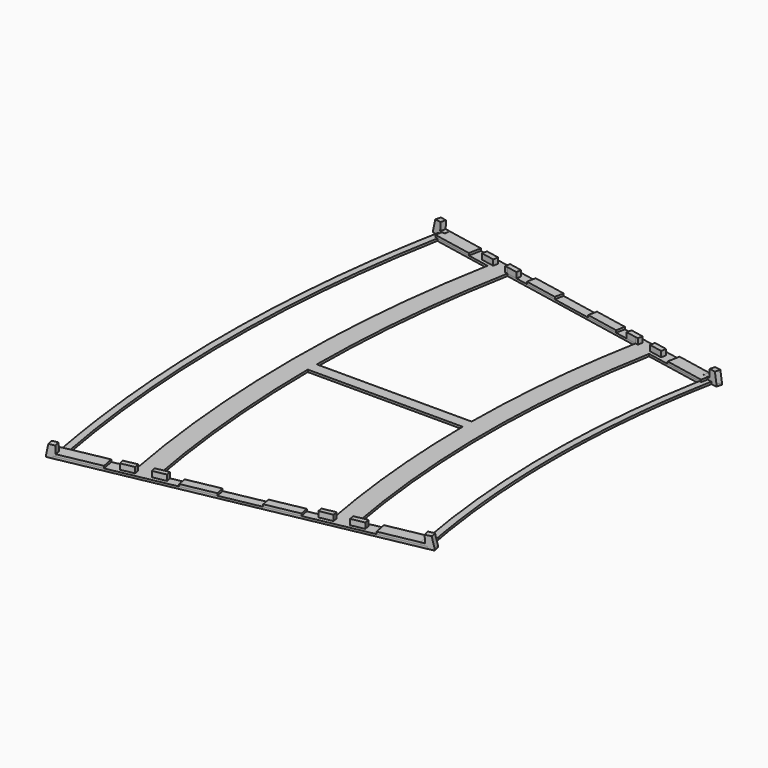
from build123d import *

# Parameters (mm, degrees)
F1_ANGLE_BACK = 11.25
F1_ANGLE      = 22.5
F2_W          = 174.6602954563
F2_H          = 13.9838710204
F2_W_2        = 174.5945907282
F2_H_2        = 12.7738052979
F3_DEPTH      = 125
F5_DEPTH      = 1.001
F7_DEPTH      = 2.5
F9_DEPTH      = 1
F11_DEPTH     = 2.5
F13_DEPTH     = 2.5


with BuildPart() as f1:
    # F0 (on Front) → F1 (revolve)
    with BuildSketch(Plane.XZ, mode=Mode.PRIVATE) as f1_sk:
        Polygon((4.5, 1.8972494266), (151.4991241063, 1.4046487898), (151.5292833394, 10.4045982575), (4.530159233, 10.8971988943), align=None)
        Polygon((151.4689648733, -7.5953006778), (151.4991241063, 1.4046487898), (4.5, 1.8972494266), (4.4973410418, 1.1037780134), (51.0110905605, -7.2586618498), align=None)
        Polygon((4.469840767, -7.102700041), (51.0110905605, -7.2586618498), (4.4973410418, 1.1037780134), align=None)
    revolve(f1_sk.sketch.rotate(Axis((561.8991869329, 0, -48.7660320647), (-0.176947319, 0, -0.9842203241)), -F1_ANGLE_BACK), axis=Axis((561.8991869329, 0, -48.7660320647), (-0.176947319, 0, -0.9842203241)), revolution_arc=F1_ANGLE)

    # F2 (on Front) → F3 (cut, symmetric)
    with BuildSketch(Plane.XZ):
        with Locations((82.9434095772, 7.9919355102)):
            Rectangle(F2_W, F2_H)
        with Locations((82.9762619412, -6.386902649)):
            Rectangle(F2_W_2, F2_H_2)
    extrude(amount=F3_DEPTH, both=True, mode=Mode.SUBTRACT)

    # F4 (on face) → F5 (cut, through all)
    with BuildSketch(Plane.XY.offset(1)):
        with BuildLine():
            Line((43.4654092359, 97.642850746), (16.9671003359, 102.8305199324))
            ThreePointArc((16.9671003359, 102.8305199324), (7.5, 0), (16.9671003359, -102.8305199324))
            Line((16.9671003359, -102.8305199324), (43.4654092359, -97.642850746))
            ThreePointArc((43.4654092359, -97.642850746), (34.5, 0), (43.4654092359, 97.642850746))
        make_face()
        with BuildLine():
            Line((120.2899679019, 84.1311059323), (52.5732132725, 97.3882584065))
            ThreePointArc((52.5732132725, 97.3882584065), (45.8906345723, 50.1494761623), (43.5059275751, 2.5))
            Line((43.5059275751, 2.5), (112.5068202166, 2.5))
            ThreePointArc((112.5068202166, 2.5), (114.5685951129, 43.4900158167), (120.2899679019, 84.1311059323))
        make_face()
        with BuildLine():
            Line((112.5068202166, -2.5), (43.5059275751, -2.5))
            ThreePointArc((43.5059275751, -2.5), (45.8906345723, -50.1494761623), (52.5732132725, -97.3882584065))
            Line((52.5732132725, -97.3882584065), (120.2899679019, -84.1311059323))
            ThreePointArc((120.2899679019, -84.1311059323), (114.5685951129, -43.4900158167), (112.5068202166, -2.5))
        make_face()
        with BuildLine():
            Line((155.3490104822, 75.7389959439), (128.8499233765, 80.9268174824))
            ThreePointArc((128.8499233765, 80.9268174824), (121.5, 0), (128.8499233765, -80.9268174824))
            Line((128.8499233765, -80.9268174824), (155.3490104822, -75.7389959439))
            ThreePointArc((155.3490104822, -75.7389959439), (148.5, 0), (155.3490104822, 75.7389959439))
        make_face()
    extrude(amount=-F5_DEPTH, mode=Mode.SUBTRACT)

    # F6 (on face) → F7 (join)
    with BuildSketch(Plane.XY.offset(1)):
        Polygon((45.0166627785, 98.8676314601), (45.4585534309, 101.1247829063), (39.5703322667, 102.2775411299), (39.1284416144, 100.0203896837), align=None)
        Polygon((52.5732132725, 97.3882584065), (57.2837902038, 96.4660518276), (57.7064682191, 98.6250662544), (51.818247055, 99.777824478), (51.3955690397, 97.6188100512), align=None)
        Polygon((116.0020689859, 87.2123269381), (115.5793909706, 85.0533125112), (120.2899679019, 84.1311059323), (121.4676121347, 83.9005542876), (121.8902901501, 86.0595687145), align=None)
        Polygon((128.2884090483, 84.908884325), (127.8465183959, 82.6517328787), (133.7347395601, 81.4989746551), (134.1766302124, 83.7561261014), align=None)
        Polygon((120.2899679019, -84.1311059323), (115.5793909706, -85.0533125112), (116.0020689859, -87.2123269381), (121.8902901501, -86.0595687145), (121.4676121347, -83.9005542876), align=None)
        Polygon((133.7347395601, -81.4989746551), (127.8465183959, -82.6517328787), (128.2884090483, -84.908884325), (134.1766302124, -83.7561261014), align=None)
        Polygon((45.4585534309, -101.1247829063), (45.0166627785, -98.8676314601), (39.1284416144, -100.0203896837), (39.5703322667, -102.2775411299), align=None)
        Polygon((57.7064682191, -98.6250662544), (57.2837902038, -96.4660518276), (52.5732132725, -97.3882584065), (51.3955690397, -97.6188100512), (51.818247055, -99.777824478), align=None)
    extrude(amount=F7_DEPTH)

    # F8 (on face) → F9 (join)
    with BuildSketch(Plane.XY.offset(1)):
        Polygon((34.6784961674, 104.9675053569), (17.0138326749, 108.4257800277), (15.9571376366, 103.0282439606), (16.9671003359, 102.8305199324), (33.6218011291, 99.5699692898), align=None)
        Polygon((78.3494698015, 96.4178818652), (63.6289168911, 99.2997774242), (62.8604114087, 95.3742966481), (77.5809643191, 92.4924010891), align=None)
        Polygon((110.7346862043, 90.0777116354), (96.0141332939, 92.9596071944), (95.2456278115, 89.0341264183), (109.9661807219, 86.1522308593), align=None)
        Polygon((157.3497208298, 80.9517187405), (139.6850573373, 84.4099934113), (138.628362299, 79.0124573441), (155.3490104822, 75.7389959439), (156.2930257915, 75.5541826733), align=None)
        Polygon((156.2930257915, -75.5541826733), (155.3490104822, -75.7389959439), (138.628362299, -79.0124573441), (139.6850573373, -84.4099934113), (157.3497208298, -80.9517187405), align=None)
        Polygon((95.2455782208, -89.0341361269), (96.0140837032, -92.959616903), (110.7346366136, -90.077721344), (109.9661311312, -86.1522405679), align=None)
        Polygon((62.860361818, -95.3743063567), (63.6288673004, -99.2997871328), (78.3494202108, -96.4178915738), (77.5809147284, -92.4924107977), align=None)
        Polygon((16.9671003359, -102.8305199324), (14.0205764212, -103.407371511), (15.0510922869, -108.8100327689), (34.6784961674, -104.9675053569), (33.6218011291, -99.5699692898), align=None)
    extrude(amount=F9_DEPTH)

    # F10 (on face) → F11 (join)
    with BuildSketch(Plane(origin=(21.0396507867, -107.4692979953, -3.7825979687), x_dir=(0.9813926052, 0.1918930354, 0.0067540611), z_dir=(0.19201186, -0.9807852804, -0.0345207094))):
        Polygon((-8.8453486731, 3.8468765561), (-6.1087279224, 3.8468765561), (-6.1021027342, 4.826798959), (-5.0953486731, 4.81999507), (-5.0953486731, 5.8261801192), (-5.0953486731, 9.2761801192), (-7.8453486731, 9.2761801192), (-8.8453486731, 4.7761801192), align=None)
        Polygon((-6.1021027342, 4.826798959), (-6.1087279224, 3.8468765561), (-5.0953486731, 3.8468765561), (-5.0953486731, 4.81999507), align=None)
        Polygon((140.8944898216, 3.8333602109), (140.8878160856, 2.8462571659), (143.6378160856, 2.8462571659), (143.6378160856, 3.835607484), (142.6378160856, 8.285607484), (139.8878160856, 8.285607484), (139.8878160856, 4.835607484), (138.0617320538, 4.835607484), (138.474456915, 3.8497153822), (138.8945354939, 3.846876389), align=None)
        Polygon((138.8945354939, 2.8462571659), (140.8878160856, 2.8462571659), (140.8944898216, 3.8333602109), (138.8945354939, 3.846876389), (138.474456915, 3.8497153822), align=None)
    extrude(amount=-F11_DEPTH)

    # F12 (on face) → F13 (join)
    with BuildSketch(Plane(origin=(21.0396507867, 107.4692979953, -3.7825979687), x_dir=(-0.9813926052, 0.1918930354, -0.0067540611), z_dir=(0.19201186, 0.9807852804, -0.0345207094))):
        Polygon((6.1088675431, 3.8262254542), (2.7622254557, 3.8036080325), (4.8167226223, 3.8036080325), (6.1021027342, 3.8036080325), (8.8521027342, 3.8036080325), (8.8521027342, 4.7536080325), (7.8521027342, 9.2536080325), (5.1021027342, 9.2536080325), (5.1021027342, 5.8036080325), (2.7622254557, 5.8036080325), (2.7622254557, 4.8042272555), (4.1021484065, 4.8132827809), (6.1021027342, 4.826798959), align=None)
        Polygon((2.7622254557, 4.8042272555), (2.7622254557, 3.8036080325), (6.1088675431, 3.8262254542), (6.1021027342, 4.826798959), (4.1021484065, 4.8132827809), align=None)
        Polygon((-143.6444898216, 2.832786706), (-140.8877250128, 2.832786706), (-140.8944898216, 3.8333602109), (-138.8945354939, 3.846876389), (-136.8420855995, 3.8607473449), (-136.7184351443, 4.832786706), (-139.8944898216, 4.832786706), (-139.8944898216, 8.282786706), (-142.6444898216, 8.282786706), (-143.6444898216, 3.782786706), align=None)
        Polygon((-140.8944898216, 3.8333602109), (-140.8877250128, 2.832786706), (-136.969481142, 2.8592671517), (-136.8420855995, 3.8607473449), (-138.8945354939, 3.846876389), align=None)
    extrude(amount=-F13_DEPTH)


solid = f1.part
